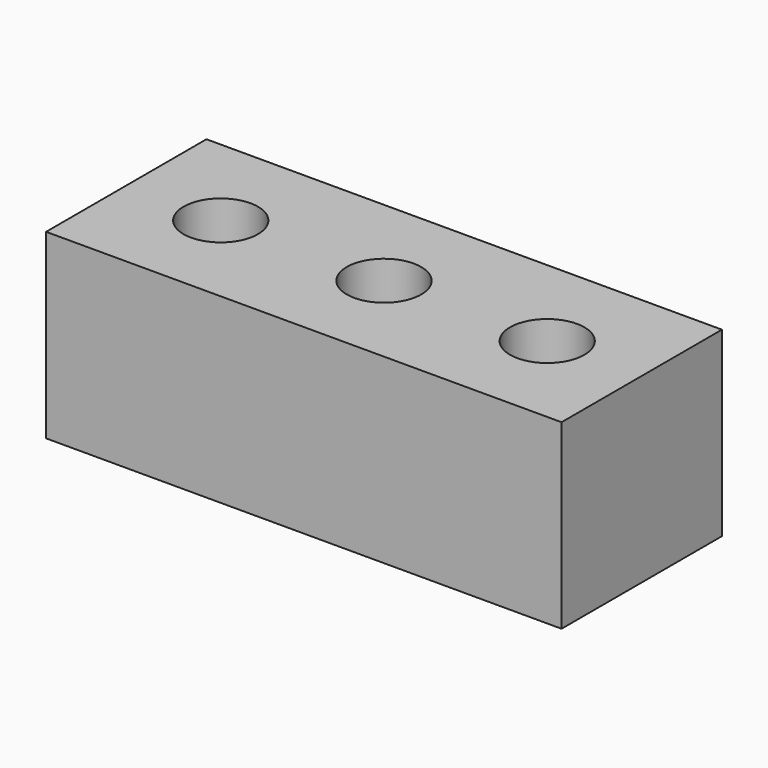
from build123d import *

# Parameters (mm, degrees)
F0_W     = 9
F0_H     = 3.5
F1_DEPTH = 3.175
F3_D     = 1.3


with BuildPart() as f1:
    # F0 (on Top) → F1 (new body)
    with BuildSketch(Plane.XY):
        Rectangle(F0_W, F0_H)
    extrude(amount=F1_DEPTH)

    # F3 (through all)
    with Locations(Plane.XY.offset(3.175)):
        with Locations((0, 0), (-2.85, 0), (2.85, 0)):
            Hole(F3_D / 2)


solid = f1.part
